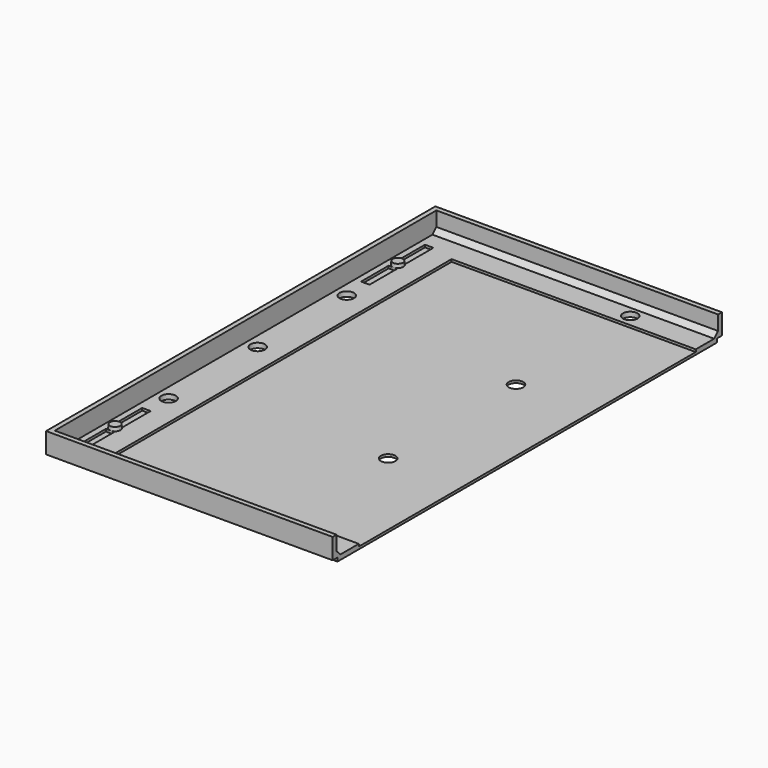
from build123d import *

# Parameters (mm, degrees)
F0_W        = 245
F0_H        = 201
F1_DEPTH    = 8
F2_T        = -2
F3_W        = 210
F3_H        = 174
F4_DEPTH    = 1
F5_W        = 3.5
F5_H        = 33
F6_DEPTH    = 1
F8_W        = 3.5
F8_H        = 4.5
F9_DEPTH    = 1
F10_R       = 2.25
F11_DEPTH   = 1.5
F12_SIZE2   = 1.4896513151
F12_SIZE    = 0.15
F12_2_SIZE2 = 1.4896513151
F12_2_SIZE  = 0.15
F12_3_SIZE2 = 1.4896513151
F12_3_SIZE  = 0.15
F12_4_SIZE2 = 1.4896513151
F12_4_SIZE  = 0.15
F12_5_SIZE2 = 1.4896513151
F12_5_SIZE  = 0.15
F13_R       = 3
F14_DEPTH   = 2.001
F15_W       = 2.5
F15_H       = 1.5
F16_DEPTH   = 245.001
F17_SIZE    = 2
F18_DEPTH   = 2
F19_W       = 186.7508292198
F19_H       = 249.5966032147
F20_DEPTH   = 10.001


with BuildPart() as f1:
    # F0 (on Top) → F1 (new body)
    with BuildSketch(Plane.XY):
        with Locations((122.5, -100.5)):
            Rectangle(F0_W, F0_H)
    extrude(amount=F1_DEPTH)

    # F2
    f2_openings = [f1.faces().sort_by_distance(p)[0] for p in [
        (122.5, -100.5, 8),
    ]]
    offset(amount=F2_T, openings=f2_openings)

    # F3 (on face) → F4 (cut)
    with BuildSketch(Plane.XY.offset(2)):
        with Locations((122.5, -100.5)):
            Rectangle(F3_W, F3_H)
    extrude(amount=-F4_DEPTH, mode=Mode.SUBTRACT)

    # F5 (on face) → F6 (cut)
    with BuildSketch(Plane.XY.offset(2)):
        with Locations((6.25, -27.5)):
            Rectangle(F5_W, F5_H)
        with Locations((6.25, -173.5)):
            Rectangle(F5_W, F5_H)
        with Locations((238.75, -27.5)):
            Rectangle(F5_W, F5_H)
        with Locations((238.75, -173.5)):
            Rectangle(F5_W, F5_H)
    extrude(amount=-F6_DEPTH, mode=Mode.SUBTRACT)

    # F8 (on face) → F9 (join)
    with BuildSketch(Plane.XY.offset(2)):
        with Locations((238.75, -173.5)):
            Rectangle(F8_W, F8_H)
        with Locations((238.75, -27.5)):
            Rectangle(F8_W, F8_H)
        with Locations((6.25, -27.5)):
            Rectangle(F8_W, F8_H)
        with Locations((6.25, -173.5)):
            Rectangle(F8_W, F8_H)
    extrude(amount=-F9_DEPTH)

    # F10 (on face) → F11 (join)
    with BuildSketch(Plane.XY.offset(2)):
        with Locations((238.5, -27.5)):
            Circle(F10_R)
        with Locations((6.5, -27.5)):
            Circle(F10_R)
        with Locations((6.5, -173.5)):
            Circle(F10_R)
        with Locations((238.5, -173.5)):
            Circle(F10_R)
        with Locations((122.5, -8.5)):
            Circle(F10_R)
    extrude(amount=F11_DEPTH)

    # F12
    f12_edges = [f1.edges().sort_by_distance(p)[0] for p in [
        (236.25, -173.5, 3.5),
    ]]
    f12_side = f1.faces().sort_by_distance((238.5, -173.5, 3.5))[0]
    chamfer(f12_edges, length=F12_SIZE, length2=F12_SIZE2, reference=f12_side)

    # F12#2
    f12_2_edges = [f1.edges().sort_by_distance(p)[0] for p in [
        (4.25, -173.5, 3.5),
    ]]
    f12_2_side = f1.faces().sort_by_distance((6.5, -173.5, 3.5))[0]
    chamfer(f12_2_edges, length=F12_2_SIZE, length2=F12_2_SIZE2, reference=f12_2_side)

    # F12#3
    f12_3_edges = [f1.edges().sort_by_distance(p)[0] for p in [
        (236.25, -27.5, 3.5),
    ]]
    f12_3_side = f1.faces().sort_by_distance((238.5, -27.5, 3.5))[0]
    chamfer(f12_3_edges, length=F12_3_SIZE, length2=F12_3_SIZE2, reference=f12_3_side)

    # F12#4
    f12_4_edges = [f1.edges().sort_by_distance(p)[0] for p in [
        (4.25, -27.5, 3.5),
    ]]
    f12_4_side = f1.faces().sort_by_distance((6.5, -27.5, 3.5))[0]
    chamfer(f12_4_edges, length=F12_4_SIZE, length2=F12_4_SIZE2, reference=f12_4_side)

    # F12#5
    f12_5_edges = [f1.edges().sort_by_distance(p)[0] for p in [
        (120.25, -8.5, 3.5),
    ]]
    f12_5_side = f1.faces().sort_by_distance((122.5, -8.5, 3.5))[0]
    chamfer(f12_5_edges, length=F12_5_SIZE, length2=F12_5_SIZE2, reference=f12_5_side)

    # F13 (on face) → F14 (cut, through all)
    with BuildSketch(Plane.XY.offset(2)):
        with Locations((7, -54.5)):
            Circle(F13_R)
        with Locations((7, -100.5)):
            Circle(F13_R)
        with Locations((7, -146.5)):
            Circle(F13_R)
        with Locations((238, -54.5)):
            Circle(F13_R)
        with Locations((238, -100.5)):
            Circle(F13_R)
        with Locations((238, -146.5)):
            Circle(F13_R)
        with Locations((87.3, -8.5)):
            Circle(F13_R)
        with Locations((87.3, -67.5)):
            Circle(F13_R)
        with Locations((157.7, -8.5)):
            Circle(F13_R)
        with Locations((157.7, -67.5)):
            Circle(F13_R)
        with Locations((157.7, -133.5)):
            Circle(F13_R)
        with Locations((157.7, -192.5)):
            Circle(F13_R)
        with Locations((87.3, -192.5)):
            Circle(F13_R)
        with Locations((87.3, -133.5)):
            Circle(F13_R)
    extrude(amount=-F14_DEPTH, mode=Mode.SUBTRACT)

    # F15 (on face) → F16 (cut, through all)
    with BuildSketch(Plane(origin=(0, 0, 0), x_dir=(0, -1, 0), z_dir=(-1, 0, 0))):
        with Locations((1.25, 0.75)):
            Rectangle(F15_W, F15_H)
        with Locations((199.75, 0.75)):
            Rectangle(F15_W, F15_H)
    extrude(amount=-F16_DEPTH, mode=Mode.SUBTRACT)

    # F17
    f17_edges = [f1.edges().sort_by_distance(p)[0] for p in [
        (122.5, -2, 2),
        (122.5, -199, 2),
    ]]
    chamfer(f17_edges, length=F17_SIZE)

    # F18 (add): a face of the model
    f18_faces = [f1.faces().sort_by_distance(p)[0] for p in [
        (122.5, -0.3169006153, 8),
    ]]
    extrude(f18_faces, amount=F18_DEPTH)

    # F19 (on face) → F20 (cut, through all)
    with BuildSketch(Plane(origin=(0, 0, 0), x_dir=(1, 0, 0), z_dir=(0, 0, -1))):
        with Locations((211.746044457, 104.012247175)):
            Rectangle(F19_W, F19_H)
    extrude(amount=-F20_DEPTH, mode=Mode.SUBTRACT)


solid = f1.part
